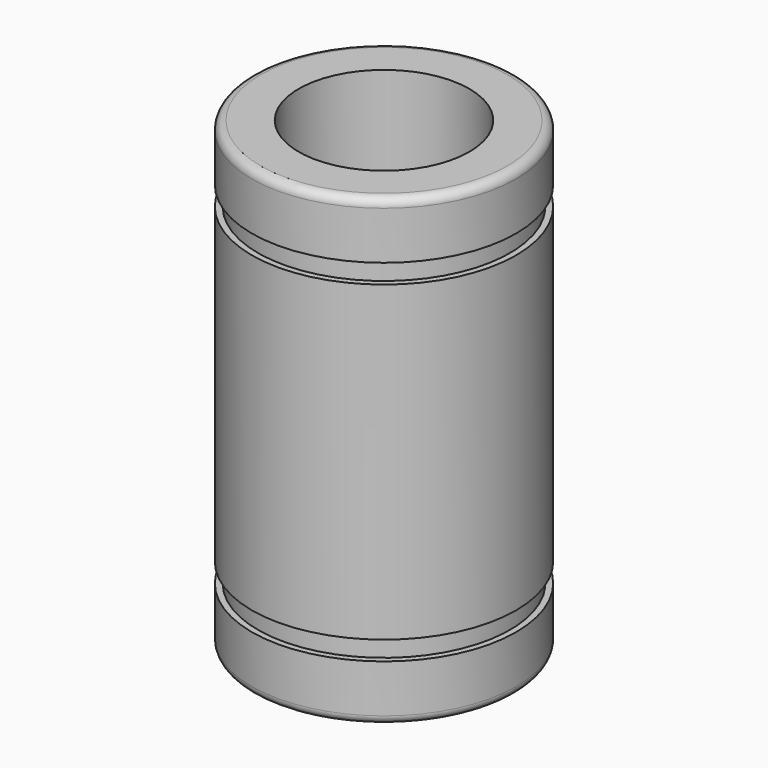
from build123d import *

# Parameters (mm, degrees)
F2_R     = 4.895
F3_DEPTH = 26.631
F4_R     = 0.5


with BuildPart() as f1:
    # F0 (on Front) → F1 (revolve)
    with BuildSketch(Plane.XZ):
        Polygon((-7.58, 0), (0, 0), (0, 26.63), (-7.58, 26.63), (-7.58, 23.38), (-7.23, 23.38), (-7.23, 22.28), (-7.58, 22.28), (-7.58, 4.35), (-7.23, 4.35), (-7.23, 3.25), (-7.58, 3.25), align=None)
    revolve(axis=Axis((0, 0, 13.315), (0, 0, 1)))

    # F2 (on face) → F3 (cut, through all)
    with BuildSketch(Plane.XY.offset(26.63)):
        Circle(F2_R)
    extrude(amount=-F3_DEPTH, mode=Mode.SUBTRACT)

    # F4
    f4_edges = [f1.edges().sort_by_distance(p)[0] for p in [
        (7.58, 0, 0),
        (7.58, 0, 26.63),
    ]]
    fillet(f4_edges, radius=F4_R)


solid = f1.part
